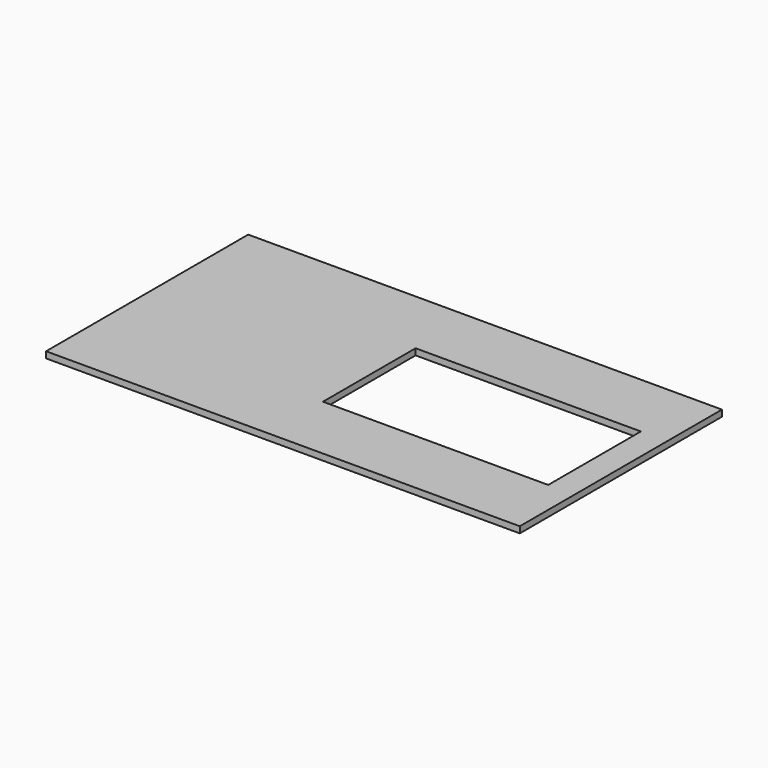
from build123d import *

# Parameters (mm, degrees)
SKETCH_W   = 450
SKETCH_H   = 240
SKETCH_W_2 = 214
SKETCH_H_2 = 110
PAD_DEPTH  = 6


with BuildPart() as part:
    # Sketch → Pad (new body)
    with BuildSketch(Plane.XY):
        with Locations((225, 120)):
            Rectangle(SKETCH_W, SKETCH_H)
        with Locations((318, 120)):
            Rectangle(SKETCH_W_2, SKETCH_H_2, mode=Mode.SUBTRACT)
    extrude(amount=PAD_DEPTH)


solid = part.part
